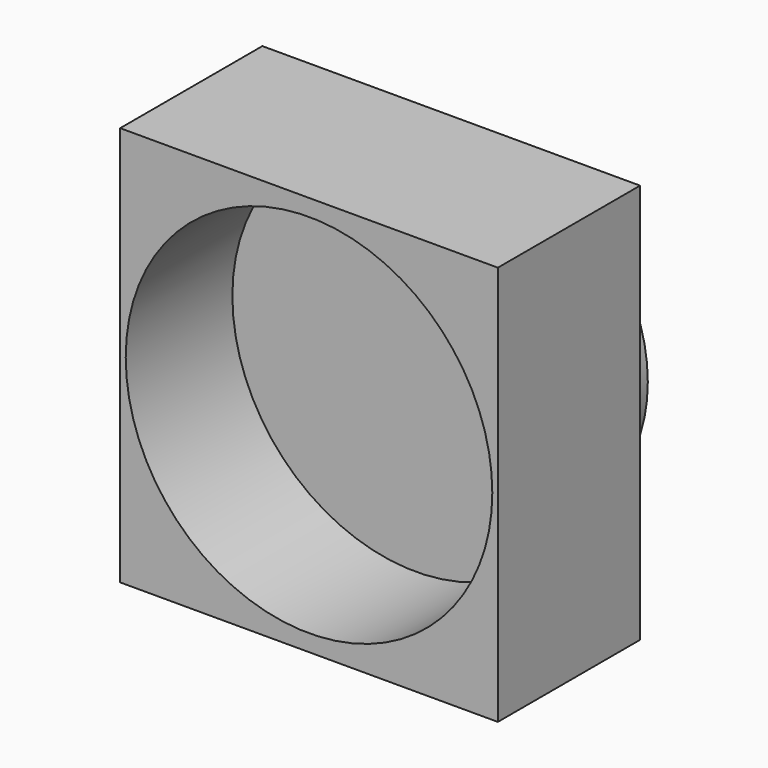
from build123d import *

# Parameters (mm, degrees)
F0_W     = 8.636
F0_H     = 9.144
F0_R     = 4.191
F1_DEPTH = 3.048
F0_R_2   = 3.683
F2_DEPTH = 1.016
F3_DEPTH = 2.032


with BuildPart() as f1:
    # F0 (on Front) → F1 (new body)
    with BuildSketch(Plane.XZ):
        with Locations((0, -8.227191)):
            Rectangle(F0_W, F0_H)
        with Locations((0, -8.227191)):
            Circle(F0_R, mode=Mode.SUBTRACT)
    extrude(amount=F1_DEPTH)

    # F0 (on Front) → F2 (join)
    with BuildSketch(Plane.XZ):
        with Locations((0, -8.227191)):
            Rectangle(F0_W, F0_H)
        with Locations((0, -8.227191)):
            Circle(F0_R, mode=Mode.SUBTRACT)
        with Locations((0, -8.227191)):
            Circle(F0_R_2)
        with Locations((0, -8.227191)):
            Circle(F0_R)
        with Locations((0, -8.227191)):
            Circle(F0_R_2, mode=Mode.SUBTRACT)
    extrude(amount=-F2_DEPTH)

    # F0 (on Front) → F3 (join)
    with BuildSketch(Plane.XZ):
        with Locations((0, -8.227191)):
            Circle(F0_R_2)
    extrude(amount=-F3_DEPTH)


solid = f1.part
